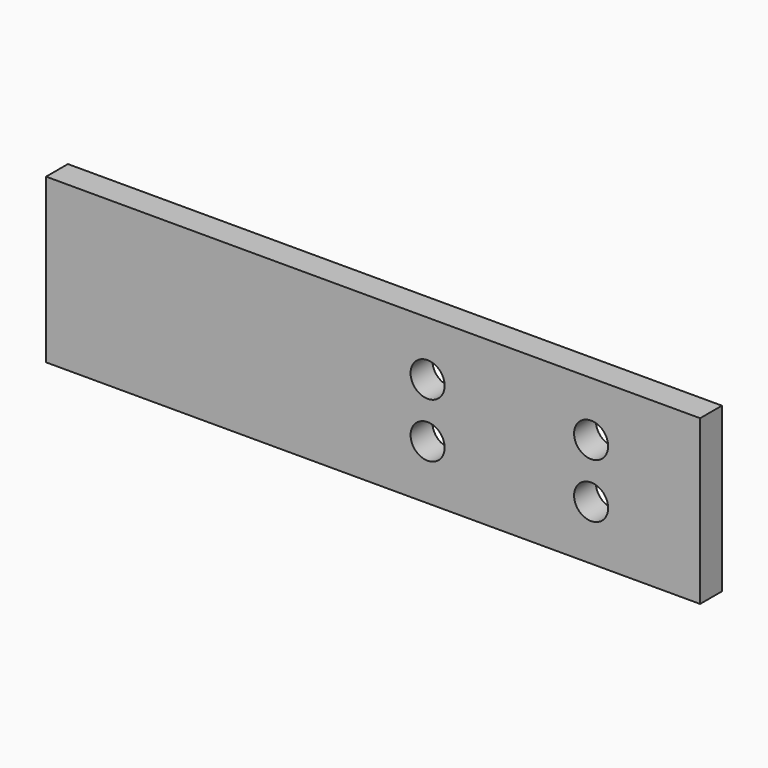
from build123d import *

# Parameters (mm, degrees)
F0_W     = 76.2
F0_H     = 19.05
F1_DEPTH = 1.5875
F2_R     = 1.984375
F3_DEPTH = 3.175


with BuildPart() as f1:
    # F0 (on Front) → F1 (new body, symmetric)
    with BuildSketch(Plane.XZ):
        Rectangle(F0_W, F0_H)
    extrude(amount=F1_DEPTH, both=True)

    # F2 (on face) → F3 (cut)
    with BuildSketch(Plane.XZ.offset(1.5875)):
        with Locations((6.35, 3.175)):
            Circle(F2_R)
        with Locations((25.4, 3.175)):
            Circle(F2_R)
        with Locations((25.4, -3.175)):
            Circle(F2_R)
        with Locations((6.35, -3.175)):
            Circle(F2_R)
    extrude(amount=-F3_DEPTH, mode=Mode.SUBTRACT)


solid = f1.part
